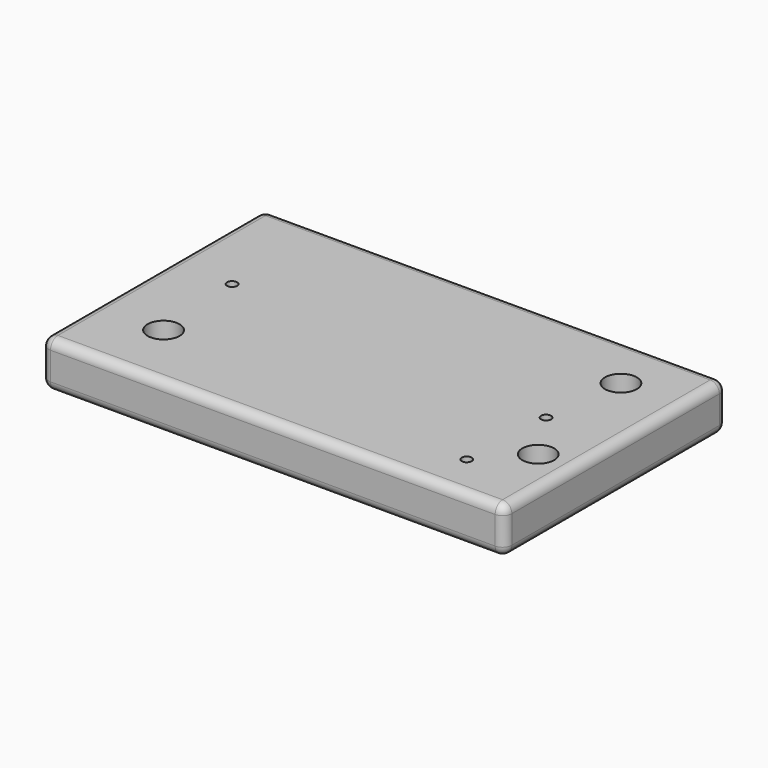
from build123d import *

# Parameters (mm, degrees)
F0_W           = 254
F0_H           = 152.4
F1_DEPTH       = 25.4
F2_R           = 5.08
F4_D           = 17.5
F4_CBORE_D     = 25.5
F4_CBORE_DEPTH = 16
F6_D           = 5.5
F6_CBORE_D     = 9.75
F6_CBORE_DEPTH = 5


with BuildPart() as f1:
    # F0 (on Top) → F1 (new body)
    with BuildSketch(Plane.XY):
        Rectangle(F0_W, F0_H)
    extrude(amount=F1_DEPTH)

    # F2
    f2_edges = [f1.edges().sort_by_distance(p)[0] for p in [
        (127, 0, 25.4),
        (0, 76.2, 25.4),
        (-127, 0, 25.4),
        (0, -76.2, 25.4),
        (127, 76.2, 12.7),
        (-127, 76.2, 12.7),
        (0, 76.2, 0),
        (127, -76.2, 12.7),
        (127, 0, 0),
        (-127, -76.2, 12.7),
        (0, -76.2, 0),
        (-127, 0, 0),
    ]]
    fillet(f2_edges, radius=F2_R)

    # F4 (through all)
    with Locations(Plane(origin=(0, 0, 0), x_dir=(1, 0, 0), z_dir=(0, 0, -1))):
        with Locations((107.5116768479, 28.6860521883), (94.0102785826, -44.8912791908), (-89.7149518132, 38.9632694423)):
            CounterBoreHole(F4_D / 2, F4_CBORE_D / 2, F4_CBORE_DEPTH)

    # F6 (through all)
    with Locations(Plane(origin=(0, 0, 0), x_dir=(1, 0, 0), z_dir=(0, 0, -1))):
        with Locations((-93.461304903, -12.6921338961), (88.8565033674, 0), (86.5757465363, 51.5028946102)):
            CounterBoreHole(F6_D / 2, F6_CBORE_D / 2, F6_CBORE_DEPTH)


solid = f1.part
